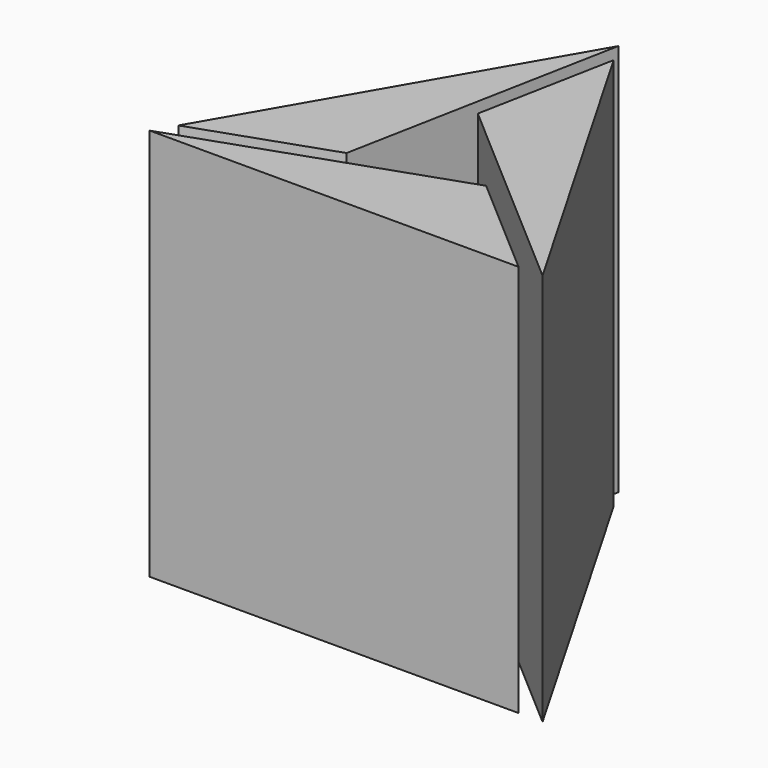
from build123d import *

# Parameters (mm, degrees)
F1_DEPTH = 25.4


with BuildPart() as f1:
    # F0 (on Top) → F1 (new body)
    with BuildSketch(Plane.XY):
        Polygon((12.7, 21.997045), (0.775983, 1.344042), (9.293138, 4.294471), align=None)
        Polygon((25.4, 0), (13.475983, 20.653004), (11.772552, 11.801716), align=None)
        Polygon((0, 0), (23.848034, 0), (17.03431, 5.900858), align=None)
    extrude(amount=F1_DEPTH)


solid = f1.part
